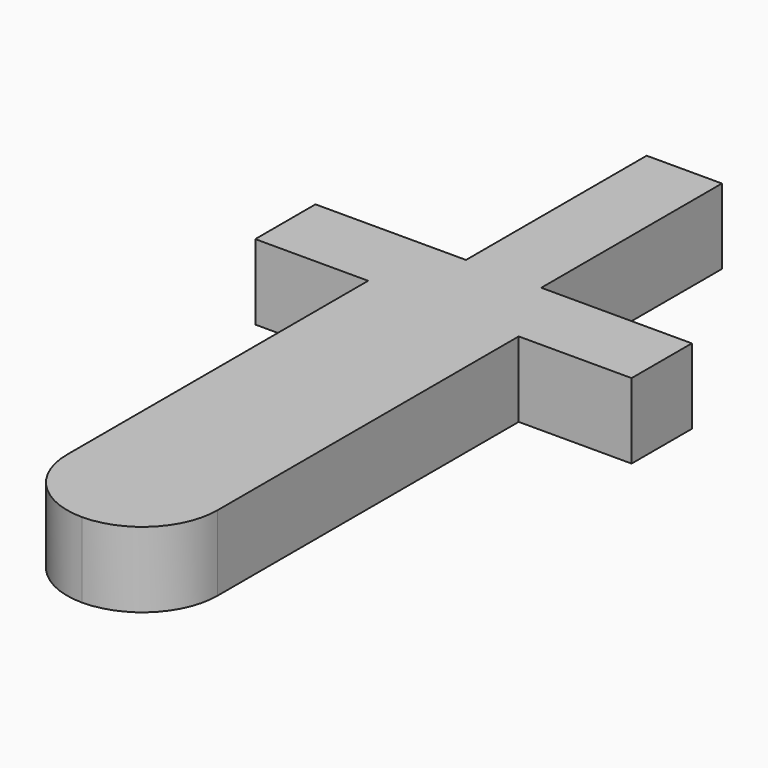
from build123d import *

# Parameters (mm, degrees)
F1_DEPTH = 6.35


with BuildPart() as f1:
    # F0 (on Top) → F1 (new body)
    with BuildSketch(Plane.XY):
        with BuildLine():
            Line((0, 0), (0, 19.05))
            Line((0, 19.05), (-6.35, 19.05))
            Line((-6.35, 19.05), (-6.35, 0))
            Line((-6.35, 0), (-19.05, 0))
            Line((-19.05, 0), (-19.05, -6.35))
            Line((-19.05, -6.35), (-9.525, -6.35))
            Line((-9.525, -6.35), (-9.525, -38.1))
            ThreePointArc((-9.525, -38.1), (-7.665128, -42.590128), (-3.175, -44.45))
            ThreePointArc((-3.175, -44.45), (1.315128, -42.590128), (3.175, -38.1))
            Line((3.175, -38.1), (3.175, -6.35))
            Line((3.175, -6.35), (12.7, -6.35))
            Line((12.7, -6.35), (12.7, 0))
            Line((12.7, 0), (0, 0))
        make_face()
    extrude(amount=F1_DEPTH)


solid = f1.part
